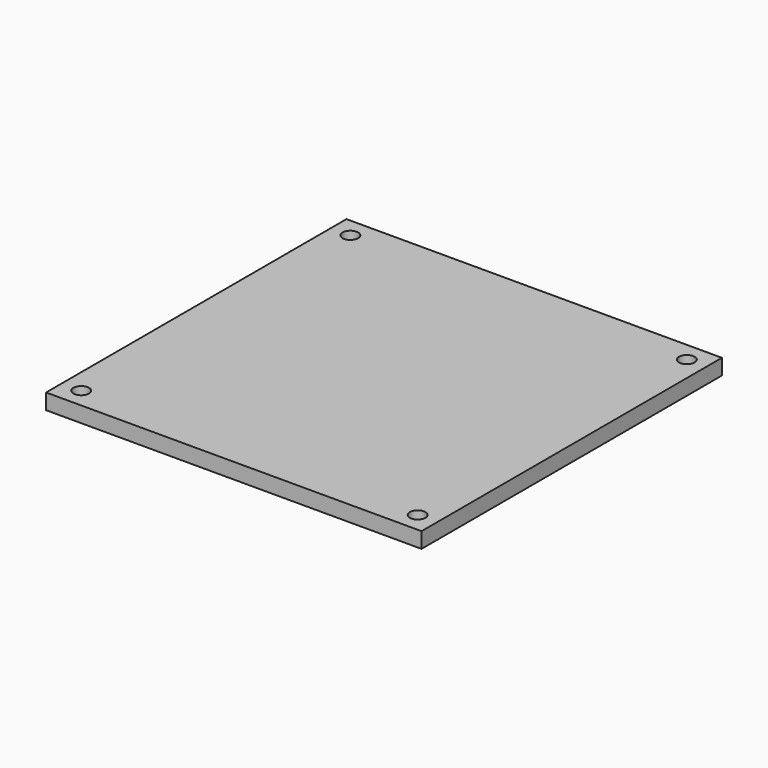
from build123d import *

# Parameters (mm, degrees)
F0_R     = 2
F1_DEPTH = 4
F2_DEPTH = 4
F3_DEPTH = 3


with BuildPart() as f1:
    # F0 (on Top) → F1 (new body)
    with BuildSketch(Plane.XY):
        Polygon((38.825550833, 38.3700664616), (43.825550833, 38.3700664616), (43.825550833, 43.3700664616), (43.825550833, 48.3700664616), (33.825550833, 48.3700664616), (33.825550833, 38.4970664616), (33.825550833, 38.3700664616), (34.0726979835, 38.3700664616), align=None)
        with Locations((38.825550833, 43.3700664616)):
            Circle(F0_R, mode=Mode.SUBTRACT)
        Polygon((-42.374449167, 48.3700664616), (-42.374449167, 38.3700664616), (-42.120449167, 38.3700664616), (-38.437449167, 38.3700664616), (29.888550833, 38.3700664616), (33.571550833, 38.3700664616), (33.825550833, 38.3700664616), (33.825550833, 38.4970664616), (33.825550833, 48.3700664616), align=None)
        Polygon((33.825550833, -37.5759335384), (33.825550833, -37.8299335384), (33.9456979835, -37.8299335384), (43.825550833, -37.8299335384), (43.825550833, 38.3700664616), (38.825550833, 38.3700664616), (34.0726979835, 38.3700664616), (33.825550833, 38.3700664616), (33.825550833, 38.1160664616), (33.825550833, 34.4330664616), (33.825550833, 22.7744664616), (33.825550833, 16.7800664616), (33.825550833, -1.6349335384), (33.825550833, -6.0799335384), (33.825550833, -19.9229335384), (33.825550833, -20.0499335384), (33.825550833, -33.8929335384), align=None)
        Polygon((-52.374449167, 43.3700664616), (-52.374449167, 38.3700664616), (-47.374449167, 38.3700664616), (-42.374449167, 38.3700664616), (-42.374449167, 48.3700664616), (-52.374449167, 48.3700664616), align=None)
        with Locations((-47.374449167, 43.3700664616)):
            Circle(F0_R, mode=Mode.SUBTRACT)
        Polygon((-52.374449167, 38.3700664616), (-52.374449167, -12.4299335384), (-42.374449167, -12.4299335384), (-42.374449167, 34.4330664616), (-42.374449167, 38.1160664616), (-42.374449167, 38.3700664616), (-47.374449167, 38.3700664616), align=None)
        Polygon((-52.374449167, -42.8299335384), (-52.374449167, -47.8299335384), (-47.374449167, -47.8299335384), (-42.374449167, -47.8299335384), (-42.374449167, -37.8299335384), (-52.374449167, -37.8299335384), align=None)
        with Locations((-47.374449167, -42.8299335384)):
            Circle(F0_R, mode=Mode.SUBTRACT)
        Polygon((-42.374449167, -37.8299335384), (-42.374449167, -47.8299335384), (33.825550833, -47.8299335384), (33.825550833, -37.8299335384), (33.571550833, -37.8299335384), (33.317550833, -37.8299335384), (31.285550833, -37.8299335384), (30.269550833, -37.8299335384), (29.888550833, -37.8299335384), (13.302350833, -37.8299335384), (5.885550833, -37.8299335384), (2.253350833, -37.8299335384), (-38.437449167, -37.8299335384), (-42.120449167, -37.8299335384), align=None)
        Polygon((33.825550833, -37.8299335384), (33.825550833, -47.8299335384), (38.825550833, -47.8299335384), (43.825550833, -47.8299335384), (43.825550833, -42.8299335384), (43.825550833, -37.8299335384), (33.9456979835, -37.8299335384), align=None)
        with Locations((38.825550833, -42.8299335384)):
            Circle(F0_R, mode=Mode.SUBTRACT)
    extrude(amount=F1_DEPTH)

    # F0 (on Top) → F2 (join)
    with BuildSketch(Plane.XY):
        Polygon((-52.374449167, -12.4299335384), (-52.374449167, -37.8299335384), (-42.374449167, -37.8299335384), (-42.374449167, -37.5759335384), (-42.374449167, -36.0798128688), (-42.374449167, -33.8929335384), (-42.374449167, -12.4299335384), align=None)
        Polygon((-42.374449167, -37.5759335384), (-42.374449167, -37.8299335384), (-42.120449167, -37.8299335384), (-38.437449167, -37.8299335384), (2.253350833, -37.8299335384), (5.885550833, -37.8299335384), (13.302350833, -37.8299335384), (29.888550833, -37.8299335384), (30.269550833, -37.8299335384), (31.285550833, -37.8299335384), (33.317550833, -37.8299335384), (33.571550833, -37.8299335384), (33.825550833, -37.8299335384), (33.825550833, -37.5759335384), (33.825550833, -33.8929335384), (33.825550833, -20.0499335384), (33.825550833, -19.9229335384), (33.825550833, -6.0799335384), (33.825550833, -1.6349335384), (33.825550833, 16.7800664616), (33.825550833, 22.7744664616), (33.825550833, 34.4330664616), (33.825550833, 38.1160664616), (33.825550833, 38.3700664616), (33.571550833, 38.3700664616), (29.888550833, 38.3700664616), (-38.437449167, 38.3700664616), (-42.120449167, 38.3700664616), (-42.374449167, 38.3700664616), (-42.374449167, 38.1160664616), (-42.374449167, 34.4330664616), (-42.374449167, -12.4299335384), (-42.374449167, -33.8929335384), (-42.374449167, -36.0798128688), align=None)
    extrude(amount=F2_DEPTH)

    # F0 (on Top) → F3 (cut)
    with BuildSketch(Plane.XY):
        Polygon((-42.374449167, -37.5759335384), (-42.374449167, -37.8299335384), (-42.120449167, -37.8299335384), (-38.437449167, -37.8299335384), (2.253350833, -37.8299335384), (5.885550833, -37.8299335384), (13.302350833, -37.8299335384), (29.888550833, -37.8299335384), (30.269550833, -37.8299335384), (31.285550833, -37.8299335384), (33.317550833, -37.8299335384), (33.571550833, -37.8299335384), (33.825550833, -37.8299335384), (33.825550833, -37.5759335384), (33.825550833, -33.8929335384), (33.825550833, -20.0499335384), (33.825550833, -19.9229335384), (33.825550833, -6.0799335384), (33.825550833, -1.6349335384), (33.825550833, 16.7800664616), (33.825550833, 22.7744664616), (33.825550833, 34.4330664616), (33.825550833, 38.1160664616), (33.825550833, 38.3700664616), (33.571550833, 38.3700664616), (29.888550833, 38.3700664616), (-38.437449167, 38.3700664616), (-42.120449167, 38.3700664616), (-42.374449167, 38.3700664616), (-42.374449167, 38.1160664616), (-42.374449167, 34.4330664616), (-42.374449167, -12.4299335384), (-42.374449167, -33.8929335384), (-42.374449167, -36.0798128688), align=None)
        Polygon((-52.374449167, 38.3700664616), (-52.374449167, -12.4299335384), (-42.374449167, -12.4299335384), (-42.374449167, 34.4330664616), (-42.374449167, 38.1160664616), (-42.374449167, 38.3700664616), (-47.374449167, 38.3700664616), align=None)
    extrude(amount=F3_DEPTH, mode=Mode.SUBTRACT)


solid = f1.part
